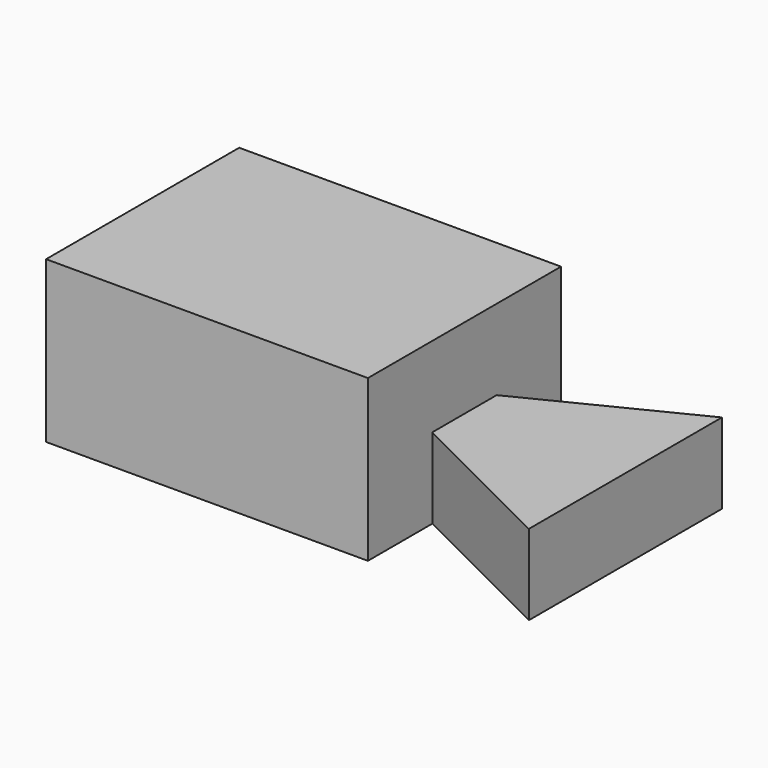
from build123d import *

# Parameters (mm, degrees)
F1_DEPTH = 25.4
F2_DEPTH = 50.8


with BuildPart() as f1:
    # F0 (on Top) → F1 (new body)
    with BuildSketch(Plane.XY):
        Polygon((80.641053, 41.950212), (29.841053, 16.550212), (29.841053, -8.849788), (80.641053, -34.249788), align=None)
    extrude(amount=F1_DEPTH)

    # F0 (on Top) → F2 (join)
    with BuildSketch(Plane.XY):
        Polygon((29.841053, 41.950212), (-71.758947, 41.950212), (-71.758947, -34.249788), (29.841053, -34.249788), (29.841053, -8.849788), (29.841053, 16.550212), align=None)
    extrude(amount=F2_DEPTH)


solid = f1.part
